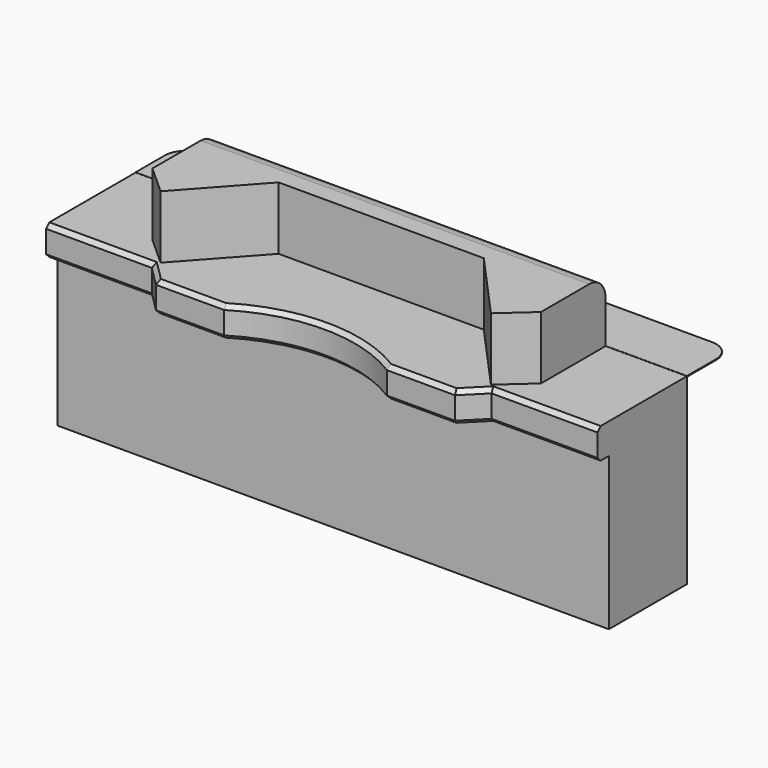
from build123d import *

# Parameters (mm, degrees)
F0_W          = 2710
F0_H          = 650
F1_DEPTH      = 1209
F2_W          = 400
F2_H          = 309
F3_DEPTH      = 650.001
F5_DEPTH      = 3
F5_DEPTH_BACK = 1
F6_W          = 170
F6_H          = 750
F7_DEPTH      = 2710.001
F8_R          = 100
F10_DEPTH     = 309
F12_DEPTH     = 900.001
F13_SIZE      = 20


with BuildPart() as f1:
    # F0 (on Top) → F1 (new body)
    with BuildSketch(Plane.XY):
        Rectangle(F0_W, F0_H)
    extrude(amount=F1_DEPTH)

    # F2 (on face) → F3 (cut, through all)
    with BuildSketch(Plane.XZ.offset(325)):
        with Locations((-1155, 1054.5)):
            Rectangle(F2_W, F2_H)
        with Locations((1155, 1054.5)):
            Rectangle(F2_W, F2_H)
    extrude(amount=-F3_DEPTH, mode=Mode.SUBTRACT)

    # F4 (on face) → F5 (join, two sides)
    with BuildSketch(Plane.XY.offset(900)) as f5_sk:
        with BuildLine():
            Line((-1355, 505), (-1355, 325))
            Line((-1355, 325), (1355, 325))
            Line((1355, 325), (1355, 505))
            ThreePointArc((1355, 505), (1325.7106781187, 575.7106781187), (1255, 605))
            Line((1255, 605), (0, 605))
            Line((0, 605), (-1255, 605))
            ThreePointArc((-1255, 605), (-1325.7106781187, 575.7106781187), (-1355, 505))
        make_face()
    extrude(amount=-F5_DEPTH)
    extrude(f5_sk.sketch, amount=F5_DEPTH_BACK)

    # F6 (on face) → F7 (cut, through all)
    with BuildSketch(Plane(origin=(-1355, 0, 0), x_dir=(0, -1, 0), z_dir=(-1, 0, 0))):
        with Locations((240, 375)):
            Rectangle(F6_W, F6_H)
    extrude(amount=-F7_DEPTH, mode=Mode.SUBTRACT)

    # F8
    f8_edges = [f1.edges().sort_by_distance(p)[0] for p in [
        (0, 325, 1209),
    ]]
    fillet(f8_edges, radius=F8_R)

    # F9 (on face) → F10 (cut, through all)
    with BuildSketch(Plane.XY.offset(1209)):
        Polygon((-811.7530941963, -200.4219144583), (-955, -71.8745142221), (-955, -325), (0, -325), (955, -325), (955, -71.8745142221), (811.7530941963, -200.4219144583), (504.4178025086, 140.1952058077), (0, 140.1952058077), (-504.4178025086, 140.1952058077), align=None)
    extrude(amount=-F10_DEPTH, mode=Mode.SUBTRACT)

    # F11 (on face) → F12 (cut, through all)
    with BuildSketch(Plane.XY.offset(900)):
        with BuildLine():
            Line((-400, -325), (400, -325))
            ThreePointArc((400, -325), (0, -210.4393653505), (-400, -325))
        make_face()
        Polygon((-735, -325), (-835, -225), (-1355, -225), (-1355, -325), align=None)
        Polygon((1355, -225), (835, -225), (735, -325), (1355, -325), align=None)
    extrude(amount=-F12_DEPTH, mode=Mode.SUBTRACT)

    # F13
    f13_edges = [f1.edges().sort_by_distance(p)[0] for p in [
        (-1095, -225, 900),
        (-785, -275, 900),
        (-567.5, -325, 900),
        (0, -210.439365, 900),
        (567.5, -325, 900),
        (1095, -225, 900),
        (-1095, -225, 750),
        (-785, -275, 750),
        (-567.5, -325, 750),
        (0, -210.439365, 750),
        (567.5, -325, 750),
        (1095, -225, 750),
        (785, -275, 900),
        (785, -275, 750),
    ]]
    chamfer(f13_edges, length=F13_SIZE)


solid = f1.part
